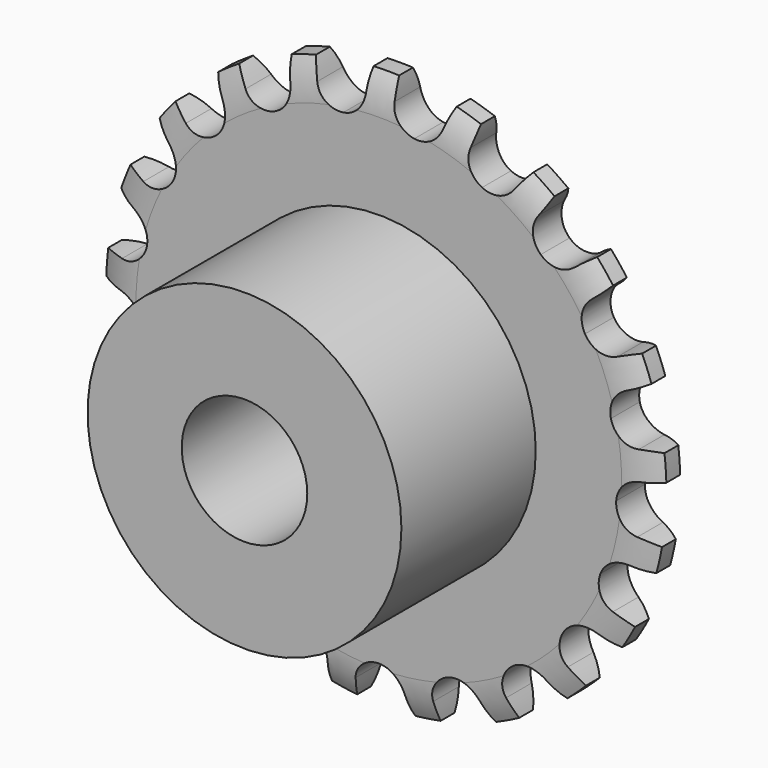
from build123d import *

# Parameters (mm, degrees)
PAD_DEPTH          = 2.3
POLARPATTERN_COUNT = 21
SKETCH002_R        = 10
PAD001_DEPTH       = 13
SKETCH003_R        = 4
POCKET_DEPTH       = 0.0010001
POCKET_DEPTH_BACK  = 13.001


with BuildPart() as part:
    # Sketch → Pad (new body)
    with BuildSketch(Plane.XZ):
        with BuildLine():
            ThreePointArc((-2.2614788312, 15.0004871086), (-1.2872275832, 15.5389690227), (-0.9, 16.5826083594))
            ThreePointArc((-0.8112462208, 17.8315557249), (-0.8777836132, 17.208656831), (-0.9, 16.5826083594))
            ThreePointArc((0.8112462208, 17.8315557249), (0, 17.85), (-0.8112462208, 17.8315557249))
            ThreePointArc((0.9, 16.5826083594), (0.8777836132, 17.208656831), (0.8112462208, 17.8315557249))
            ThreePointArc((0.9, 16.5826083594), (1.2872275832, 15.5389690227), (2.2614788312, 15.0004871086))
            Line((2.2614788312, 15.0004871086), (2.2614788312, 0))
            Line((-2.2614788312, 0), (2.2614788312, 0))
            Line((-2.2614788312, 15.0004871086), (-2.2614788312, 0))
        make_face()
    pad = extrude(amount=PAD_DEPTH)

    # PolarPattern: Pad ×21 about axis
    polarpattern_axis = Axis((0, 0, 0), (0, 1, 0))
    for i in range(1, POLARPATTERN_COUNT):
        add(pad.rotate(polarpattern_axis, i * 360 / POLARPATTERN_COUNT))

    # Sketch001 → Groove (revolve, cut)
    with BuildSketch(Plane.YZ):
        with BuildLine():
            ThreePointArc((-1.7, 17.85), (-2.1476837151, 16.6998611849), (-2.2999999999, 15.4751000849))
            Line((-2.3, 17.85), (-2.3, 15.4751000849))
            Line((-1.7, 17.85), (-2.3, 17.85))
        make_face()
        with BuildLine():
            Line((-0.6, 17.85), (0, 17.85))
            Line((0, 17.85), (0, 15.4751000849))
            ThreePointArc((-1e-10, 15.4751000849), (-0.1523162849, 16.6998611849), (-0.6, 17.85))
        make_face()
    revolve(axis=Axis((0, 0, 0), (0, 1, 0)), mode=Mode.SUBTRACT)

    # Sketch002 → Pad001 (join)
    with BuildSketch(Plane.XZ):
        Circle(SKETCH002_R)
    extrude(amount=PAD001_DEPTH)

    # Sketch003 → Pocket (cut, two sides)
    with BuildSketch(Plane.XZ) as pocket_sk:
        Circle(SKETCH003_R)
    extrude(amount=-POCKET_DEPTH, mode=Mode.SUBTRACT)
    extrude(pocket_sk.sketch, amount=POCKET_DEPTH_BACK, mode=Mode.SUBTRACT)


solid = part.part
